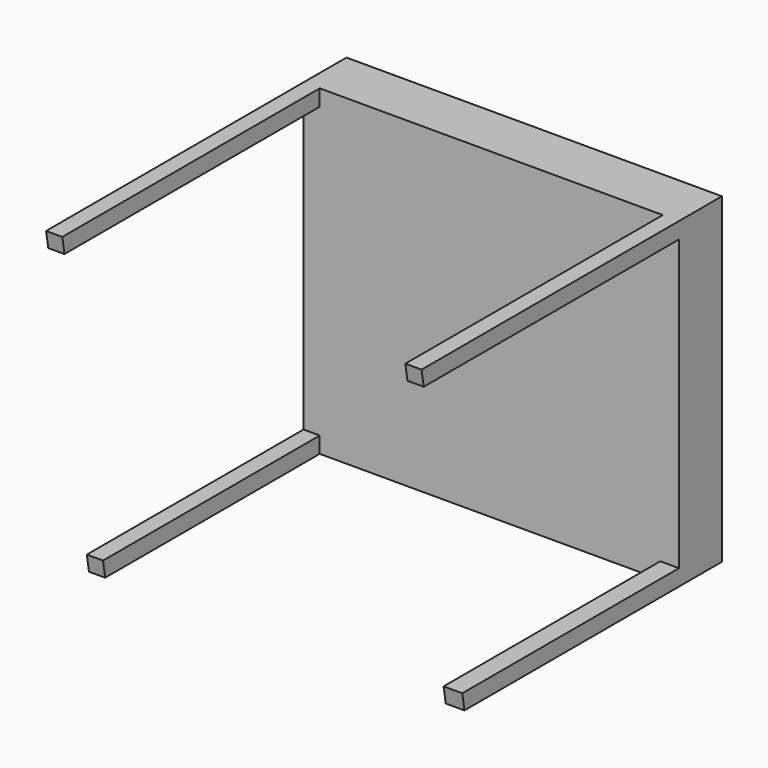
from build123d import *

# Parameters (mm, degrees)
F0_W     = 2133.6
F0_H     = 1828.8
F1_DEPTH = 304.8
F2_W     = 92.075
F2_H     = 92.075
F2_W_2   = 106.395008
F3_DEPTH = 1828.8
F5_DEPTH = 2133.6


with BuildPart() as f1:
    # F0 (on Front) → F1 (new body)
    with BuildSketch(Plane.XZ):
        Rectangle(F0_W, F0_H)
    extrude(amount=F1_DEPTH)

    # F2 (on face) → F3 (join)
    with BuildSketch(Plane.XZ.offset(304.8)):
        with Locations((-1020.7625, 868.3625)):
            Rectangle(F2_W, F2_H)
        with Locations((-1020.7625, -868.3625)):
            Rectangle(F2_W, F2_H)
        with Locations((1020.7625, 868.3625)):
            Rectangle(F2_W, F2_H)
        with Locations((1013.602496, -868.3625)):
            Rectangle(F2_W_2, F2_H)
    extrude(amount=F3_DEPTH)

    # F4 (on face) → F5 (cut)
    with BuildSketch(Plane(origin=(-1066.8, 0, 0), x_dir=(0, -1, 0), z_dir=(-1, 0, 0))):
        Polygon((2133.6, -914.4), (2133.6, 914.4), (1828.8, -914.4), align=None)
    extrude(amount=-F5_DEPTH, mode=Mode.SUBTRACT)


solid = f1.part
